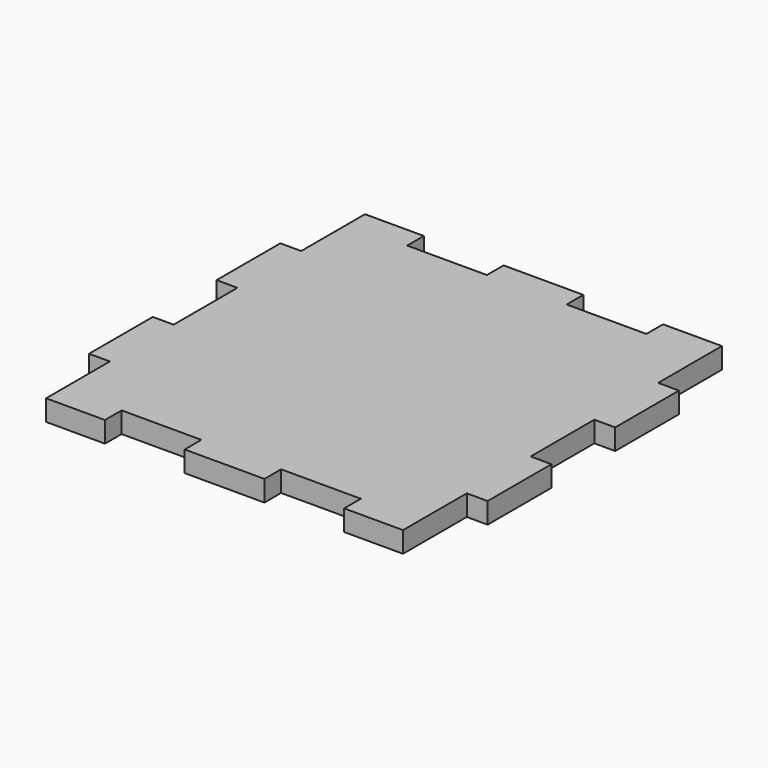
from build123d import *

# Parameters (mm, degrees)
F0_W     = 16.4948
F0_H     = 5.842
F0_W_2   = 5.842
F0_H_2   = 22.337
F0_W_3   = 22.3368
F0_H_3   = 22.3366
F1_DEPTH = 5.842


with BuildPart() as f1:
    # F0 (on Top) → F1 (new body)
    with BuildSketch(Plane.XY):
        with Locations((-41.7526, 52.921)):
            Rectangle(F0_W, F0_H)
        Polygon((-33.5052, 50), (-50, 50), (-50, 33.5052), (-50, 11.1682), (-50, -11.1686), (-50, -33.5052), (-50, -50), (-33.5052, -50), (-11.1682, -50), (11.1686, -50), (33.5052, -50), (50, -50), (50, -33.5052), (50, -11.1686), (50, 11.1682), (50, 33.5052), (50, 50), (33.5052, 50), (11.1684, 50), (-11.1684, 50), align=None)
        with Locations((-52.921, 22.3367)):
            Rectangle(F0_W_2, F0_H_2)
        with Locations((0, 52.921)):
            Rectangle(F0_W_3, F0_H)
        with Locations((-52.921, -22.3369)):
            Rectangle(F0_W_2, F0_H_3)
        with Locations((41.7526, 52.921)):
            Rectangle(F0_W, F0_H)
        with Locations((-41.7526, -52.921)):
            Rectangle(F0_W, F0_H)
        with Locations((52.921, 22.3367)):
            Rectangle(F0_W_2, F0_H_2)
        with Locations((0.0002, -52.921)):
            Rectangle(F0_W_3, F0_H)
        with Locations((52.921, -22.3369)):
            Rectangle(F0_W_2, F0_H_3)
        with Locations((41.7526, -52.921)):
            Rectangle(F0_W, F0_H)
    extrude(amount=F1_DEPTH)


solid = f1.part
